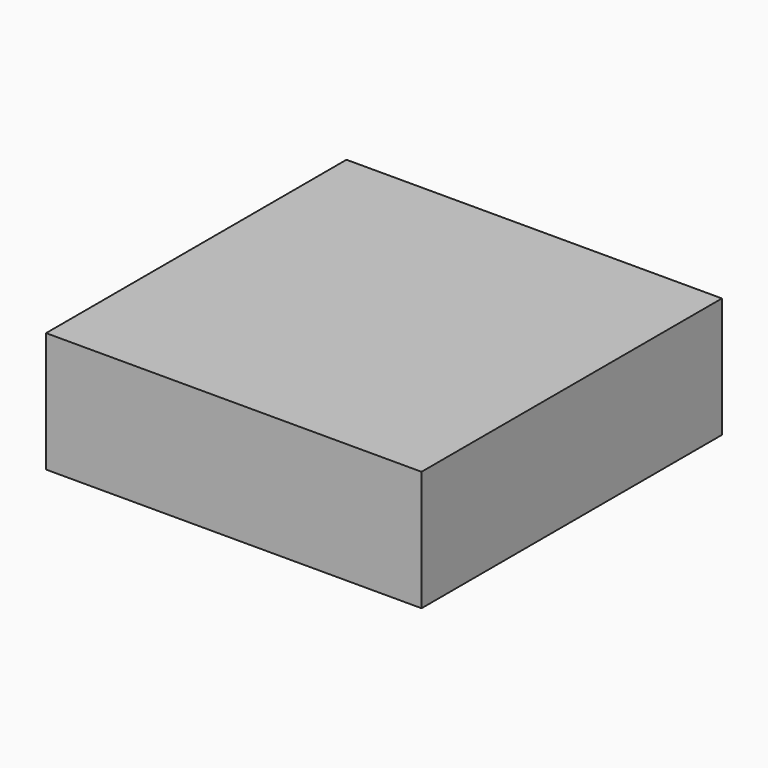
from build123d import *

# Parameters (mm, degrees)
SKETCH_W  = 5
SKETCH_H  = 5
PAD_DEPTH = 1.6


with BuildPart() as part:
    # Sketch → Pad (new body)
    with BuildSketch(Plane.XY):
        Rectangle(SKETCH_W, SKETCH_H)
    extrude(amount=PAD_DEPTH)


solid = part.part
